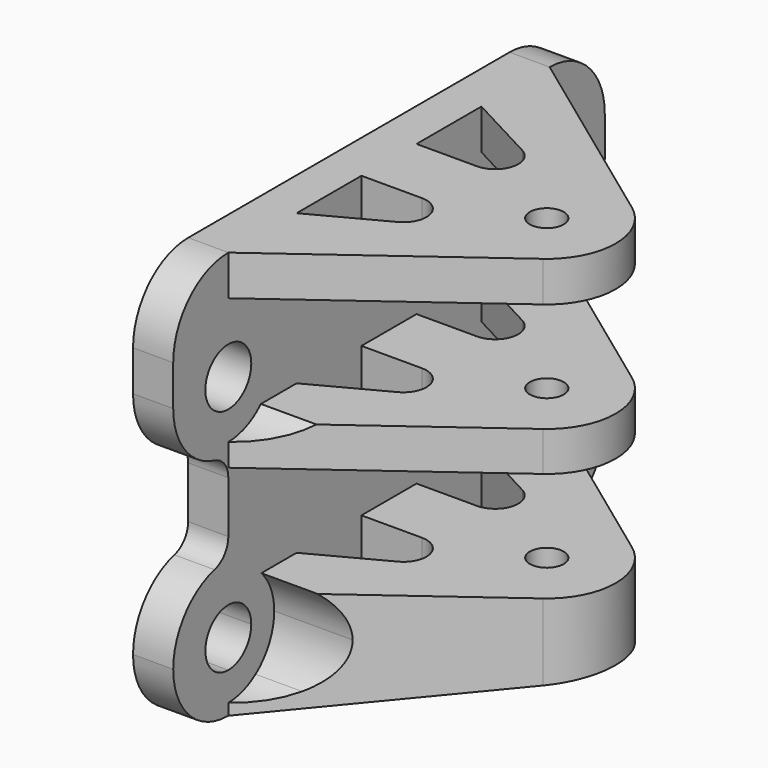
from build123d import *

# Parameters (mm, degrees)
F0_R          = 2.5
F1_DEPTH      = 3.5
F0_W          = 5.5
F0_H          = 4
F2_DEPTH      = 25
F4_DEPTH      = 47.001
F5_R          = 1.475
F6_DEPTH      = 16.001
F6_DEPTH_BACK = 19.526
F8_R          = 1.475
F9_DEPTH      = 6.476


with BuildPart() as f1:
    # F0 (on Right) → F1 (new body)
    with BuildSketch(Plane.YZ):
        with BuildLine():
            Line((48.5, -15), (48.5, -16))
            ThreePointArc((48.5, -16), (52.7426406871, -14.2426406871), (54.5, -10))
            ThreePointArc((54.5, -10), (53.2434164903, -6.3257653858), (50, -4.1905249807))
            ThreePointArc((50, -4.1905249807), (48.9188611699, -3.478778179), (48.5, -2.2540333076))
            Line((48.5, -2.2540333076), (48.5, 2.2540333076))
            ThreePointArc((48.5, 2.2540333076), (48.9188611699, 3.478778179), (50, 4.1905249807))
            ThreePointArc((50, 4.1905249807), (53.2434164903, 6.3257653858), (54.5, 10))
            Line((54.5, 10), (54.5, 13.525))
            ThreePointArc((54.5, 13.525), (52.7426406871, 17.7676406871), (48.5, 19.525))
            Line((48.5, 19.525), (48.5, 16.025))
            Line((48.5, 16.025), (13.5, 16.025))
            Line((13.5, 16.025), (13.5, 19.525))
            ThreePointArc((13.5, 19.525), (9.2573593129, 17.7676406871), (7.5, 13.525))
            Line((7.5, 13.525), (7.5, 10))
            ThreePointArc((7.5, 10), (8.7565835097, 6.3257653858), (12, 4.1905249807))
            ThreePointArc((12, 4.1905249807), (13.0811388301, 3.478778179), (13.5, 2.2540333076))
            Line((13.5, 2.2540333076), (13.5, -2.2540333076))
            ThreePointArc((13.5, -2.2540333076), (13.0811388301, -3.478778179), (12, -4.1905249807))
            ThreePointArc((12, -4.1905249807), (8.7565835097, -6.3257653858), (7.5, -10))
            ThreePointArc((7.5, -10), (9.2573593129, -14.2426406871), (13.5, -16))
            Line((13.5, -16), (13.5, -15))
            ThreePointArc((13.5, -15), (8.8970118401, -8.047437581), (17.0950486784, -6.525))
            Line((17.0950486784, -6.525), (44.9049513216, -6.525))
            ThreePointArc((44.9049513216, -6.525), (50.3741340144, -5.3645257313), (53.5, -10))
            ThreePointArc((53.5, -10), (52.0355339059, -13.5355339059), (48.5, -15))
        make_face()
        with BuildLine():
            ThreePointArc((44.9539634802, 6.475), (46.5934563471, 14.6222387757), (53.5, 10))
            ThreePointArc((53.5, 10), (52.0355339059, 6.4644660941), (48.5, 5))
            Line((48.5, 5), (48.5, 3.025))
            Line((48.5, 3.025), (13.5, 3.025))
            Line((13.5, 3.025), (13.5, 5))
            ThreePointArc((13.5, 5), (9.9644660941, 13.5355339059), (18.5, 10))
            ThreePointArc((18.5, 10), (18.1222387757, 8.0934563471), (17.0460365198, 6.475))
            Line((17.0460365198, 6.475), (27.575, 6.475))
            Line((27.575, 6.475), (34.425, 6.475))
            Line((34.425, 6.475), (44.9539634802, 6.475))
        make_face(mode=Mode.SUBTRACT)
        with BuildLine():
            ThreePointArc((48.5, 5), (52.0355339059, 6.4644660941), (53.5, 10))
            ThreePointArc((53.5, 10), (46.5934563471, 14.6222387757), (44.9539634802, 6.475))
            Line((44.9539634802, 6.475), (48.5, 6.475))
            Line((48.5, 6.475), (48.5, 5))
        make_face()
        with Locations((48.5, 10)):
            Circle(F0_R, mode=Mode.SUBTRACT)
        with BuildLine():
            Line((13.5, 6.475), (17.0460365198, 6.475))
            ThreePointArc((17.0460365198, 6.475), (18.1222387757, 8.0934563471), (18.5, 10))
            ThreePointArc((18.5, 10), (9.9644660941, 13.5355339059), (13.5, 5))
            Line((13.5, 5), (13.5, 6.475))
        make_face()
        with Locations((13.5, 10)):
            Circle(F0_R, mode=Mode.SUBTRACT)
        with BuildLine():
            Line((48.5, -14.025), (48.5, -15))
            ThreePointArc((48.5, -15), (52.0355339059, -13.5355339059), (53.5, -10))
            ThreePointArc((53.5, -10), (50.3741340144, -5.3645257313), (44.9049513216, -6.525))
            Line((44.9049513216, -6.525), (48.5, -6.525))
            Line((48.5, -6.525), (48.5, -7.5))
            ThreePointArc((48.5, -7.5), (50.267766953, -8.232233047), (51, -10))
            ThreePointArc((51, -10), (50.267766953, -11.767766953), (48.5, -12.5))
            Line((48.5, -12.5), (48.5, -14.025))
        make_face()
        with BuildLine():
            Line((48.5, -14.025), (48.5, -15))
            ThreePointArc((48.5, -15), (52.0355339059, -13.5355339059), (53.5, -10))
            ThreePointArc((53.5, -10), (50.3741340144, -5.3645257313), (44.9049513216, -6.525))
            Line((44.9049513216, -6.525), (48.5, -6.525))
            Line((48.5, -6.525), (48.5, -7.5))
            ThreePointArc((48.5, -7.5), (50.267766953, -8.232233047), (51, -10))
            ThreePointArc((51, -10), (50.267766953, -11.767766953), (48.5, -12.5))
            Line((48.5, -12.5), (48.5, -14.025))
        make_face()
        with BuildLine():
            ThreePointArc((17.0950486784, -6.525), (8.8970118401, -8.047437581), (13.5, -15))
            Line((13.5, -15), (13.5, -14.025))
            Line((13.5, -14.025), (13.5, -12.5))
            ThreePointArc((13.5, -12.5), (11, -10), (13.5, -7.5))
            Line((13.5, -7.5), (13.5, -6.525))
            Line((13.5, -6.525), (17.0950486784, -6.525))
        make_face()
        with BuildLine():
            ThreePointArc((17.0950486784, -6.525), (8.8970118401, -8.047437581), (13.5, -15))
            Line((13.5, -15), (13.5, -14.025))
            Line((13.5, -14.025), (13.5, -12.5))
            ThreePointArc((13.5, -12.5), (11, -10), (13.5, -7.5))
            Line((13.5, -7.5), (13.5, -6.525))
            Line((13.5, -6.525), (17.0950486784, -6.525))
        make_face()
        with BuildLine():
            ThreePointArc((44.9049513216, -6.525), (43.5174738282, -10.4176517058), (45.5336259508, -14.025))
            Line((45.5336259508, -14.025), (48.5, -14.025))
            Line((48.5, -14.025), (48.5, -12.5))
            ThreePointArc((48.5, -12.5), (46, -10), (48.5, -7.5))
            Line((48.5, -7.5), (48.5, -6.525))
            Line((48.5, -6.525), (44.9049513216, -6.525))
        make_face()
        with BuildLine():
            ThreePointArc((18.5, -10), (18.1354742687, -8.1258659856), (17.0950486784, -6.525))
            Line((17.0950486784, -6.525), (13.5, -6.525))
            Line((13.5, -6.525), (13.5, -7.5))
            ThreePointArc((13.5, -7.5), (15.267766953, -8.232233047), (16, -10))
            ThreePointArc((16, -10), (15.267766953, -11.767766953), (13.5, -12.5))
            Line((13.5, -12.5), (13.5, -14.025))
            Line((13.5, -14.025), (16.4663740492, -14.025))
            ThreePointArc((16.4663740492, -14.025), (17.9627273189, -12.2547871023), (18.5, -10))
        make_face()
        with BuildLine():
            ThreePointArc((13.5, 5), (15.420286437, 5.3834536718), (17.0460365198, 6.475))
            Line((17.0460365198, 6.475), (13.5, 6.475))
            Line((13.5, 6.475), (13.5, 5))
        make_face()
        with BuildLine():
            Line((48.5, 6.475), (44.9539634802, 6.475))
            ThreePointArc((44.9539634802, 6.475), (46.579713563, 5.3834536718), (48.5, 5))
            Line((48.5, 5), (48.5, 6.475))
        make_face()
        with BuildLine():
            ThreePointArc((45.5336259508, -14.025), (46.9387505004, -14.75), (48.5, -15))
            Line((48.5, -15), (48.5, -14.025))
            Line((48.5, -14.025), (45.5336259508, -14.025))
        make_face()
        with BuildLine():
            Line((13.5, -14.025), (13.5, -15))
            ThreePointArc((13.5, -15), (15.0612494996, -14.75), (16.4663740492, -14.025))
            Line((16.4663740492, -14.025), (13.5, -14.025))
        make_face()
    extrude(amount=F1_DEPTH)

    # F0 (on Right) → F2 (join)
    with BuildSketch(Plane.YZ):
        with Locations((31, -12.025)):
            Rectangle(F0_W, F0_H)
        with BuildLine():
            ThreePointArc((48.5, 5), (46.579713563, 5.3834536718), (44.9539634802, 6.475))
            Line((44.9539634802, 6.475), (34.425, 6.475))
            Line((34.425, 6.475), (27.575, 6.475))
            Line((27.575, 6.475), (17.0460365198, 6.475))
            ThreePointArc((17.0460365198, 6.475), (15.420286437, 5.3834536718), (13.5, 5))
            Line((13.5, 5), (13.5, 3.025))
            Line((13.5, 3.025), (48.5, 3.025))
            Line((48.5, 3.025), (48.5, 5))
        make_face()
        Polygon((48.5, 16.025), (48.5, 19.525), (35.4, 19.525), (26.6, 19.525), (13.5, 19.525), (13.5, 16.025), align=None)
        with BuildLine():
            Line((33.75, -14.025), (45.5336259508, -14.025))
            ThreePointArc((45.5336259508, -14.025), (43.5174738282, -10.4176517058), (44.9049513216, -6.525))
            Line((44.9049513216, -6.525), (17.0950486784, -6.525))
            ThreePointArc((17.0950486784, -6.525), (18.1354742687, -8.1258659856), (18.5, -10))
            ThreePointArc((18.5, -10), (17.9627273189, -12.2547871023), (16.4663740492, -14.025))
            Line((16.4663740492, -14.025), (28.25, -14.025))
            Line((28.25, -14.025), (28.25, -10.025))
            Line((28.25, -10.025), (33.75, -10.025))
            Line((33.75, -10.025), (33.75, -14.025))
        make_face()
        with BuildLine():
            Line((13.5, -16), (48.5, -16))
            Line((48.5, -16), (48.5, -15))
            ThreePointArc((48.5, -15), (46.9387505004, -14.75), (45.5336259508, -14.025))
            Line((45.5336259508, -14.025), (33.75, -14.025))
            Line((33.75, -14.025), (28.25, -14.025))
            Line((28.25, -14.025), (16.4663740492, -14.025))
            ThreePointArc((16.4663740492, -14.025), (15.0612494996, -14.75), (13.5, -15))
            Line((13.5, -15), (13.5, -16))
        make_face()
    extrude(amount=F2_DEPTH)

    # F3 (on face) → F4 (cut, through all)
    with BuildSketch(Plane(origin=(0, 54.5, 0), x_dir=(-1, 0, 0), z_dir=(0, 1, 0))):
        Polygon((-25, -12.525), (-25, -16), (-3.5, -16), align=None)
    extrude(amount=-F4_DEPTH, mode=Mode.SUBTRACT)

    # F5 (on Top) → F6 (cut, two sides)
    with BuildSketch(Plane.XY) as f6_sk:
        with BuildLine():
            ThreePointArc((20.7938548449, 35.8416002353), (23.25, 31), (20.7938548449, 26.1583997647))
            Line((20.7938548449, 26.1583997647), (3.5, 13.5))
            Line((3.5, 13.5), (25, 13.5))
            Line((25, 13.5), (25, 48.5))
            Line((25, 48.5), (3.5, 48.5))
            Line((3.5, 48.5), (20.7938548449, 35.8416002353))
        make_face()
        with Locations((17.25, 31)):
            Circle(F5_R)
        with BuildLine():
            Line((9.6998989998, 37.7656271516), (3.5, 41.0644418683))
            Line((3.5, 41.0644418683), (3.5, 34))
            Line((3.5, 34), (8.7604519489, 34))
            ThreePointArc((8.7604519489, 34), (10.7009743403, 35.5158793039), (9.6998989998, 37.7656271516))
        make_face()
        with BuildLine():
            Line((3.5, 28), (3.5, 20.9355581317))
            Line((3.5, 20.9355581317), (9.6998989998, 24.2343728484))
            ThreePointArc((9.6998989998, 24.2343728484), (10.7009743403, 26.4841206961), (8.7604519489, 28))
            Line((8.7604519489, 28), (3.5, 28))
        make_face()
    extrude(amount=-F6_DEPTH, mode=Mode.SUBTRACT)
    extrude(f6_sk.sketch, amount=F6_DEPTH_BACK, mode=Mode.SUBTRACT)

    # F8 (on offset) → F9 (cut, through all)
    with BuildSketch(Plane.XY.offset(-9.525)):
        Polygon((20.173566383, 31), (18.6002868994, 33.725), (15.4537279323, 33.725), (13.8804484488, 31), (15.4537279323, 28.275), (18.6002868994, 28.275), align=None)
        with Locations((17.25, 31)):
            Circle(F8_R, mode=Mode.SUBTRACT)
    extrude(amount=-F9_DEPTH, mode=Mode.SUBTRACT)


solid = f1.part
